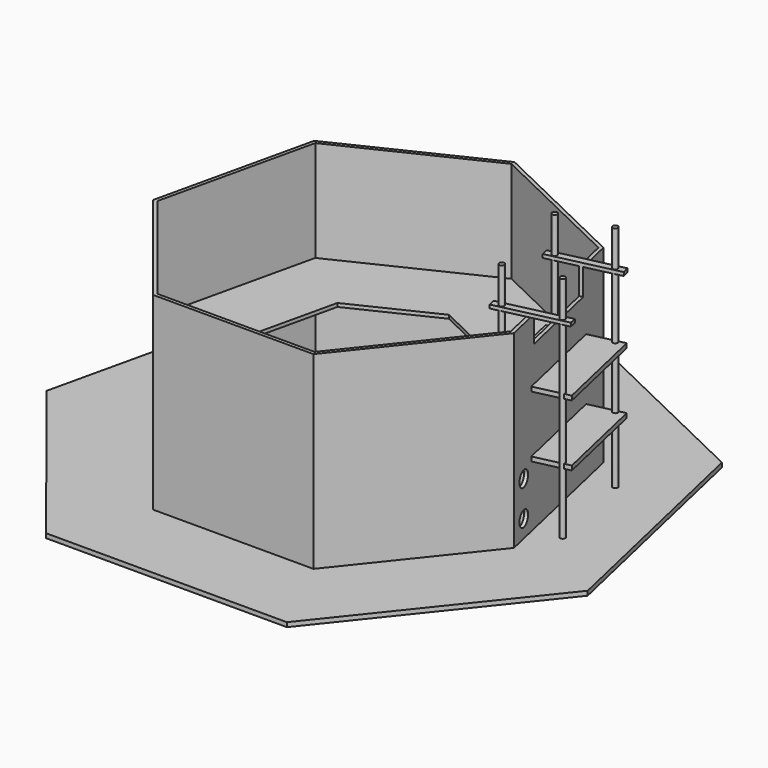
from build123d import *

# Parameters (mm, degrees)
F1_DEPTH  = 1100
F3_DEPTH  = 25
F6_DEPTH  = 20
F7_W      = 500
F7_H      = 150
F8_DEPTH  = 20
F7_R      = 44
F9_DEPTH  = 20
F10_R     = 15
F11_DEPTH = 1300
F7_W_2    = 560
F7_H_2    = 25
F12_DEPTH = 200
F13_DEPTH = 200
F7_W_3    = 40
F7_H_3    = 20
F14_DEPTH = 200


with BuildPart() as f1:
    # F0 (on Top) → F1 (new body)
    with BuildSketch(Plane.XY):
        Polygon((822.5610589096, 655.9705552114), (0, 1052.0950836017), (-822.5610589096, 655.9705552114), (-1025.7168632726, -234.1131806139), (-456.4869487803, -947.9049163983), (456.4869487803, -947.9049163983), (1025.7168632726, -234.1131806139), align=None)
        Polygon((805.2057093449, 642.1301257788), (1004.07509635, -229.1735885395), (446.8554564041, -927.9049163983), (-446.8554564041, -927.9049163983), (-1004.07509635, -229.1735885395), (-805.2057093449, 642.1301257788), (0, 1029.8967583182), align=None, mode=Mode.SUBTRACT)
    extrude(amount=F1_DEPTH)

    # F2 (on Top) → F3 (join)
    with BuildSketch(Plane.XY):
        Polygon((1233.8415883644, 983.955832817), (0, 1578.1426254025), (-1233.8415883644, 983.955832817), (-1538.5752949088, -351.1697709208), (-684.7304231704, -1421.8573745975), (684.7304231704, -1421.8573745975), (1538.5752949088, -351.1697709208), align=None)
    extrude(amount=F3_DEPTH)

    # F5 (on offset) → F6 (join)
    with BuildSketch(Plane.XY.offset(525)):
        Polygon((0, 1029.8967583182), (-805.2057093449, 642.1301257788), (-1004.07509635, -229.1735885395), (-446.8554564041, -927.9049163983), (446.8554564041, -927.9049163983), (1004.07509635, -229.1735885395), (805.2057093449, 642.1301257788), align=None)
        Polygon((-458.0987180509, 365.3215371267), (0, 585.9302526483), (458.0987180509, 365.3215371267), (571.2397578986, -130.3817470526), (254.2256088811, -527.9049163983), (-254.2256088811, -527.9049163983), (-571.2397578986, -130.3817470526), align=None, mode=Mode.SUBTRACT)
    extrude(amount=-F6_DEPTH)

    # F7 (on face) → F8 (cut)
    with BuildSketch(Plane(origin=(924.1389610911, 210.9286872987, 0), x_dir=(-0.222520934, 0.9749279122, 0), z_dir=(0.9749279122, 0.222520934, 0))):
        with Locations((5.12197e-05, 1025)):
            Rectangle(F7_W, F7_H)
    extrude(amount=-F8_DEPTH, mode=Mode.SUBTRACT)

    # F7 (on face) → F9 (cut)
    with BuildSketch(Plane(origin=(924.1389610911, 210.9286872987, 0), x_dir=(-0.222520934, 0.9749279122, 0), z_dir=(0.9749279122, 0.222520934, 0))):
        with Locations((-356.4869487803, 325)):
            Circle(F7_R)
        with Locations((-356.4869487803, 125)):
            Circle(F7_R)
    extrude(amount=-F9_DEPTH, mode=Mode.SUBTRACT)

    # F10 (on face) → F11 (join)
    with BuildSketch(Plane.XY.offset(25)):
        with Locations((1130.4587886891, -18.9236589614)):
            Circle(F10_R)
        with Locations((1008.9917511872, 507.2393885425)):
            Circle(F10_R)
        with Locations((717.8191106982, 440.7811334299)):
            Circle(F10_R)
        with Locations((837.9804150346, -85.6799391483)):
            Circle(F10_R)
    extrude(amount=F11_DEPTH)

    # F7 (on face) → F12 (join)
    with BuildSketch(Plane(origin=(924.1389610911, 210.9286872987, 0), x_dir=(-0.222520934, 0.9749279122, 0), z_dir=(0.9749279122, 0.222520934, 0))):
        with Locations((5.12197e-05, 387.5)):
            Rectangle(F7_W_2, F7_H_2)
    extrude(amount=F12_DEPTH)

    # F7 (on face) → F13 (join, symmetric)
    with BuildSketch(Plane(origin=(924.1389610911, 210.9286872987, 0), x_dir=(-0.222520934, 0.9749279122, 0), z_dir=(0.9749279122, 0.222520934, 0))):
        with Locations((5.12197e-05, 737.5)):
            Rectangle(F7_W_2, F7_H_2)
    extrude(amount=F13_DEPTH, both=True)

    # F7 (on face) → F14 (join, symmetric)
    with BuildSketch(Plane(origin=(924.1389610911, 210.9286872987, 0), x_dir=(-0.222520934, 0.9749279122, 0), z_dir=(0.9749279122, 0.222520934, 0))):
        with Locations((270.0000512197, 1110)):
            Rectangle(F7_W_3, F7_H_3)
        with Locations((-269.9999487803, 1110)):
            Rectangle(F7_W_3, F7_H_3)
    extrude(amount=F14_DEPTH, both=True)


solid = f1.part
